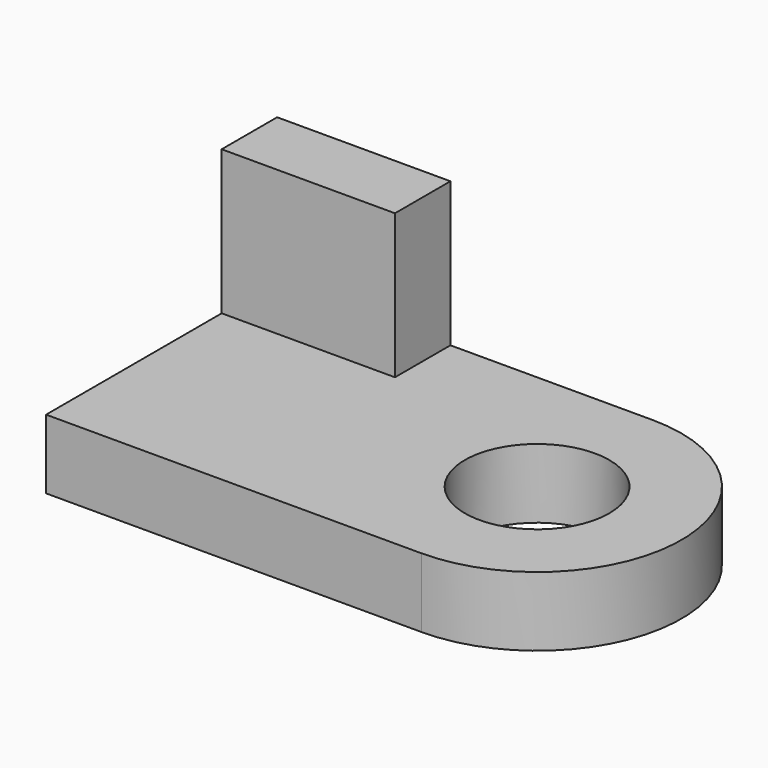
from build123d import *

# Parameters (mm, degrees)
F0_R     = 317.5
F1_DEPTH = 304.8
F2_W     = 762
F2_H     = 304.8
F3_DEPTH = 635


with BuildPart() as f1:
    # F0 (on Top) → F1 (new body)
    with BuildSketch(Plane.XY):
        with BuildLine():
            Line((-825.5, -635), (825.5, -635))
            ThreePointArc((825.5, -635), (1460.5, 0), (825.5, 635))
            Line((825.5, 635), (-825.5, 635))
            Line((-825.5, 635), (-825.5, -635))
        make_face()
        with Locations((825.5, 0)):
            Circle(F0_R, mode=Mode.SUBTRACT)
    extrude(amount=F1_DEPTH)

    # F2 (on face) → F3 (join)
    with BuildSketch(Plane.XY.offset(304.8)):
        with Locations((-444.5, 482.6)):
            Rectangle(F2_W, F2_H)
    extrude(amount=F3_DEPTH)


solid = f1.part
